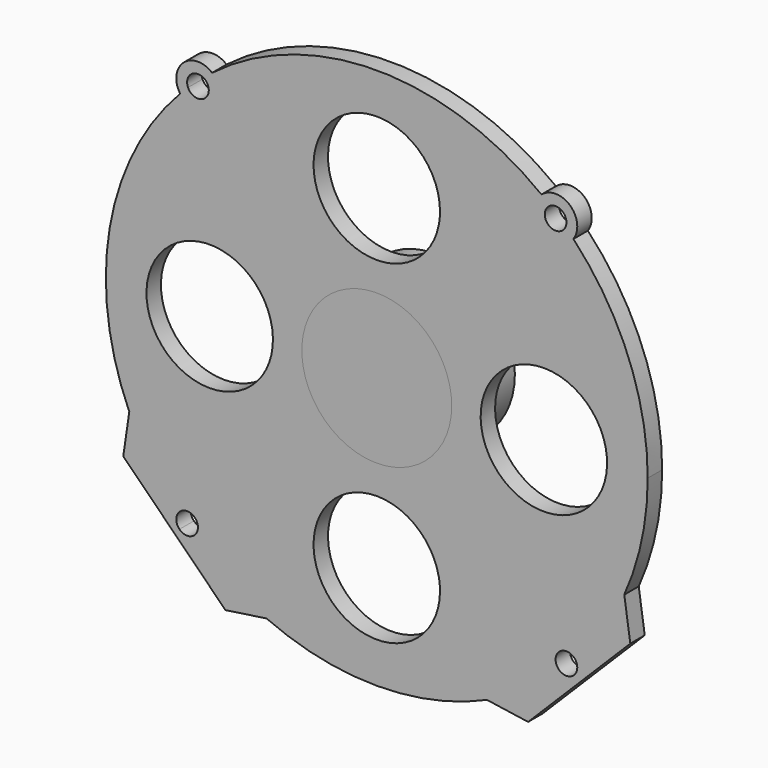
from build123d import *

# Parameters (mm, degrees)
F2_R     = 29
F2_R_2   = 23
F3_DEPTH = 37
F2_R_3   = 37.5
F4_DEPTH = 37
F1_R     = 44.45
F1_R_2   = 41
F5_DEPTH = 40
F0_R     = 140
F0_R_2   = 41.5
F6_DEPTH = 10
F7_DEPTH = 37


with BuildPart() as f3:
    # F2 (on face) → F3 (new body)
    with BuildSketch(Plane.XZ):
        Circle(F2_R)
        Circle(F2_R_2, mode=Mode.SUBTRACT)
    extrude(amount=-F3_DEPTH)


with BuildPart() as f4:
    # F2 (on face) → F4 (new body)
    with BuildSketch(Plane.XZ):
        Circle(F2_R_3)
        Circle(F2_R, mode=Mode.SUBTRACT)
    extrude(amount=-F4_DEPTH)


with BuildPart() as f5:
    # F1 (on face) → F5 (new body)
    with BuildSketch(Plane.XZ):
        Circle(F1_R)
        Circle(F1_R_2, mode=Mode.SUBTRACT)
    extrude(amount=-F5_DEPTH)


with BuildPart() as f6:
    # F0 (on Front) → F6 (new body)
    with BuildSketch(Plane.XZ):
        with BuildLine():
            ThreePointArc((137.0233911422, -61.0294214285), (146.7199861493, -31.196885491), (150, 0))
            ThreePointArc((150, 0), (139.3398045954, 55.537544556), (108.8744152626, 103.1812080819))
            ThreePointArc((108.8744152626, 103.1812080819), (106.711251974, 105.4168331062), (104.5021919642, 107.6071181413))
            ThreePointArc((104.5021919642, 107.6071181413), (94.9862116103, 105.5402351225), (96.0427603211, 115.2206066201))
            ThreePointArc((96.0427603211, 115.2206066201), (93.632686031, 117.1875424549), (91.1823401367, 119.1040756951))
            ThreePointArc((91.1823401367, 119.1040756951), (0, 150), (-91.1823401367, 119.1040756951))
            ThreePointArc((-91.1823401367, 119.1040756951), (-93.632686031, 117.1875424549), (-96.0427603211, 115.2206066201))
            ThreePointArc((-96.0427603211, 115.2206066201), (-93.8162061155, 113.0213045135), (-93, 110))
            ThreePointArc((-93, 110), (-97.7779426742, 104.1257701873), (-104.5021919642, 107.6071181413))
            ThreePointArc((-104.5021919642, 107.6071181413), (-106.711251974, 105.4168331062), (-108.8744152626, 103.1812080819))
            ThreePointArc((-108.8744152626, 103.1812080819), (-147.8435507884, 25.3433322649), (-137.0233911422, -61.0294214285))
            ThreePointArc((-137.0233911422, -61.0294214285), (-125.2428617807, -82.548322654), (-110.1122585236, -101.8591700479))
            ThreePointArc((-110.1122585236, -101.8591700479), (-103.3680611441, -99.2261992093), (-99, -105))
            ThreePointArc((-99, -105), (-99.7633512762, -107.9287386609), (-101.8591700479, -110.1122585236))
            ThreePointArc((-101.8591700479, -110.1122585236), (-82.548322654, -125.2428617807), (-61.0294214285, -137.0233911422))
            ThreePointArc((-61.0294214285, -137.0233911422), (0, -150), (61.0294214285, -137.0233911422))
            ThreePointArc((61.0294214285, -137.0233911422), (82.548322654, -125.2428617807), (101.8591700479, -110.1122585236))
            ThreePointArc((101.8591700479, -110.1122585236), (100.7573593129, -100.7573593129), (110.1122585236, -101.8591700479))
            ThreePointArc((110.1122585236, -101.8591700479), (125.2428617807, -82.548322654), (137.0233911422, -61.0294214285))
        make_face()
        Circle(F0_R, mode=Mode.SUBTRACT)
        Circle(F0_R)
        with BuildLine():
            ThreePointArc((-34.3679229384, 85.8783783784), (-3.325860577, 127.3416223994), (35, 92.5))
            ThreePointArc((35, 92.5), (34.8416223994, 89.174139423), (34.3679229384, 85.8783783784))
            ThreePointArc((34.3679229384, 85.8783783784), (65.4073772598, 65.4073772598), (85.8783783784, 34.3679229384))
            ThreePointArc((85.8783783784, 34.3679229384), (114.7850088988, 26.9884860335), (127.5, 0))
            ThreePointArc((127.5, 0), (114.7850088988, -26.9884860335), (85.8783783784, -34.3679229384))
            ThreePointArc((85.8783783784, -34.3679229384), (65.4073772598, -65.4073772598), (34.3679229384, -85.8783783784))
            ThreePointArc((34.3679229384, -85.8783783784), (34.8416223994, -89.174139423), (35, -92.5))
            ThreePointArc((35, -92.5), (-3.325860577, -127.3416223994), (-34.3679229384, -85.8783783784))
            ThreePointArc((-34.3679229384, -85.8783783784), (-65.4073772598, -65.4073772598), (-85.8783783784, -34.3679229384))
            ThreePointArc((-85.8783783784, -34.3679229384), (-127.5, 0), (-85.8783783784, 34.3679229384))
            ThreePointArc((-85.8783783784, 34.3679229384), (-65.4073772598, 65.4073772598), (-34.3679229384, 85.8783783784))
        make_face(mode=Mode.SUBTRACT)
        with BuildLine():
            ThreePointArc((34.3679229384, 85.8783783784), (0, 57.5), (-34.3679229384, 85.8783783784))
            ThreePointArc((-34.3679229384, 85.8783783784), (-65.4073772598, 65.4073772598), (-85.8783783784, 34.3679229384))
            ThreePointArc((-85.8783783784, 34.3679229384), (-65.5115139665, 22.2850088988), (-57.5, 0))
            ThreePointArc((-57.5, 0), (-65.5115139665, -22.2850088988), (-85.8783783784, -34.3679229384))
            ThreePointArc((-85.8783783784, -34.3679229384), (-65.4073772598, -65.4073772598), (-34.3679229384, -85.8783783784))
            ThreePointArc((-34.3679229384, -85.8783783784), (0, -57.5), (34.3679229384, -85.8783783784))
            ThreePointArc((34.3679229384, -85.8783783784), (65.4073772598, -65.4073772598), (85.8783783784, -34.3679229384))
            ThreePointArc((85.8783783784, -34.3679229384), (57.5, 0), (85.8783783784, 34.3679229384))
            ThreePointArc((85.8783783784, 34.3679229384), (65.4073772598, 65.4073772598), (34.3679229384, 85.8783783784))
        make_face()
        Circle(F0_R_2, mode=Mode.SUBTRACT)
        with BuildLine():
            Line((140.3553390593, -83.7867965644), (137.0233911422, -61.0294214285))
            ThreePointArc((137.0233911422, -61.0294214285), (125.2428617807, -82.548322654), (110.1122585236, -101.8591700479))
            ThreePointArc((110.1122585236, -101.8591700479), (110.7738007907, -103.3680611441), (111, -105))
            ThreePointArc((111, -105), (107.9287386609, -110.2366487238), (101.8591700479, -110.1122585236))
            ThreePointArc((101.8591700479, -110.1122585236), (82.548322654, -125.2428617807), (61.0294214285, -137.0233911422))
            Line((61.0294214285, -137.0233911422), (83.7867965644, -140.3553390593))
            Line((83.7867965644, -140.3553390593), (112.0710678119, -112.0710678119))
            Line((112.0710678119, -112.0710678119), (140.3553390593, -83.7867965644))
        make_face()
        with BuildLine():
            Line((-83.7867965644, -140.3553390593), (-61.0294214285, -137.0233911422))
            ThreePointArc((-61.0294214285, -137.0233911422), (-82.548322654, -125.2428617807), (-101.8591700479, -110.1122585236))
            ThreePointArc((-101.8591700479, -110.1122585236), (-105.7018229971, -110.9588123381), (-109.2426406871, -109.2426406871))
            Line((-109.2426406871, -109.2426406871), (-112.0710678119, -112.0710678119))
            Line((-112.0710678119, -112.0710678119), (-83.7867965644, -140.3553390593))
        make_face()
        with BuildLine():
            ThreePointArc((-110.1122585236, -101.8591700479), (-125.2428617807, -82.548322654), (-137.0233911422, -61.0294214285))
            Line((-137.0233911422, -61.0294214285), (-140.3553390593, -83.7867965644))
            Line((-140.3553390593, -83.7867965644), (-112.0710678119, -112.0710678119))
            Line((-112.0710678119, -112.0710678119), (-109.2426406871, -109.2426406871))
            ThreePointArc((-109.2426406871, -109.2426406871), (-110.9588123381, -105.7018229971), (-110.1122585236, -101.8591700479))
        make_face()
        with BuildLine():
            ThreePointArc((104.5021919642, 107.6071181413), (106.711251974, 105.4168331062), (108.8744152626, 103.1812080819))
            ThreePointArc((108.8744152626, 103.1812080819), (107.0275767795, 118.919529755), (91.1823401367, 119.1040756951))
            ThreePointArc((91.1823401367, 119.1040756951), (93.632686031, 117.1875424549), (96.0427603211, 115.2206066201))
            ThreePointArc((96.0427603211, 115.2206066201), (102.0213045135, 115.1837938845), (105, 110))
            ThreePointArc((105, 110), (104.8742298127, 108.7779426742), (104.5021919642, 107.6071181413))
        make_face()
        with BuildLine():
            ThreePointArc((-96.0427603211, 115.2206066201), (-93.632686031, 117.1875424549), (-91.1823401367, 119.1040756951))
            ThreePointArc((-91.1823401367, 119.1040756951), (-107.0275767795, 118.919529755), (-108.8744152626, 103.1812080819))
            ThreePointArc((-108.8744152626, 103.1812080819), (-106.711251974, 105.4168331062), (-104.5021919642, 107.6071181413))
            ThreePointArc((-104.5021919642, 107.6071181413), (-103.0137883897, 114.4597648775), (-96.0427603211, 115.2206066201))
        make_face()
    extrude(amount=-F6_DEPTH)


with BuildPart() as f7:
    # F0 (on Front) → F7 (new body)
    with BuildSketch(Plane.XZ):
        Circle(F0_R_2)
    extrude(amount=-F7_DEPTH)


solid = Compound([f3.part, f4.part, f5.part, f6.part, f7.part])
